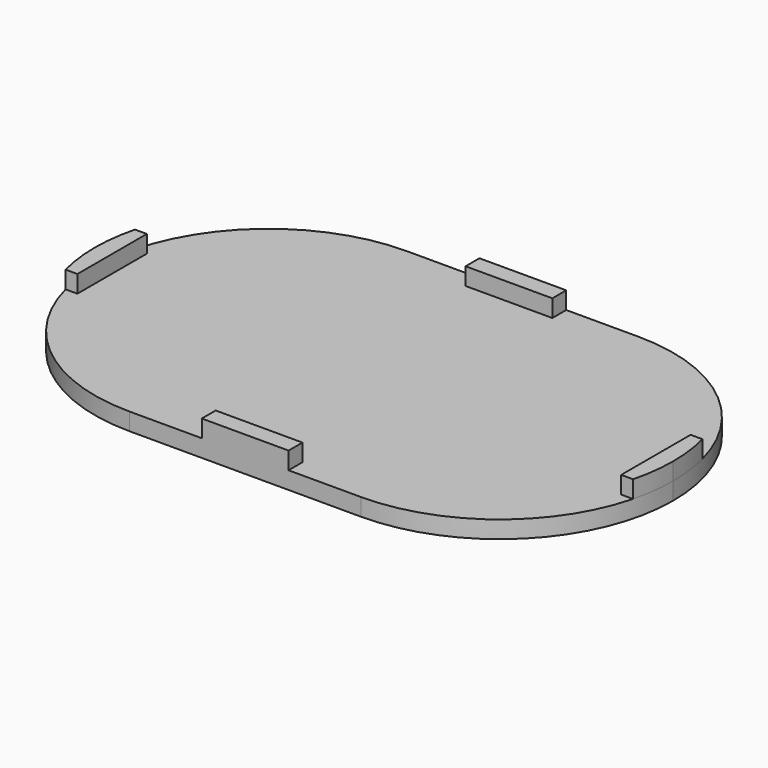
from build123d import *

# Parameters (mm, degrees)
F1_DEPTH = 3
F2_W     = 15
F2_H     = 3
F3_DEPTH = 3


with BuildPart() as f1:
    # F0 (on Top) → F1 (new body)
    with BuildSketch(Plane.XY):
        with BuildLine():
            Line((20, 30), (-20, 30))
            ThreePointArc((-20, 30), (-41.213203, 21.213203), (-50, 0))
            ThreePointArc((-50, 0), (-41.213203, -21.213203), (-20, -30))
            Line((-20, -30), (20, -30))
            ThreePointArc((20, -30), (41.213203, -21.213203), (50, 0))
            ThreePointArc((50, 0), (41.213203, 21.213203), (20, 30))
        make_face()
    extrude(amount=F1_DEPTH)

    # F2 (on face) → F3 (join)
    with BuildSketch(Plane.XY.offset(3)):
        with Locations((0, 28.5)):
            Rectangle(F2_W, F2_H)
        with BuildLine():
            Line((-47, 7.5), (-49.047375, 7.5))
            ThreePointArc((-49.047375, 7.5), (-49.760891, 3.780129), (-50, 0))
            ThreePointArc((-50, 0), (-49.760891, -3.780129), (-49.047375, -7.5))
            Line((-49.047375, -7.5), (-47, -7.5))
            Line((-47, -7.5), (-47, 7.5))
        make_face()
        with Locations((0, -28.5)):
            Rectangle(F2_W, F2_H)
        with BuildLine():
            ThreePointArc((50, 0), (49.760891, 3.780129), (49.047375, 7.5))
            Line((49.047375, 7.5), (47, 7.5))
            Line((47, 7.5), (47, -7.5))
            Line((47, -7.5), (49.047375, -7.5))
            ThreePointArc((49.047375, -7.5), (49.760891, -3.780129), (50, 0))
        make_face()
    extrude(amount=F3_DEPTH)


solid = f1.part
